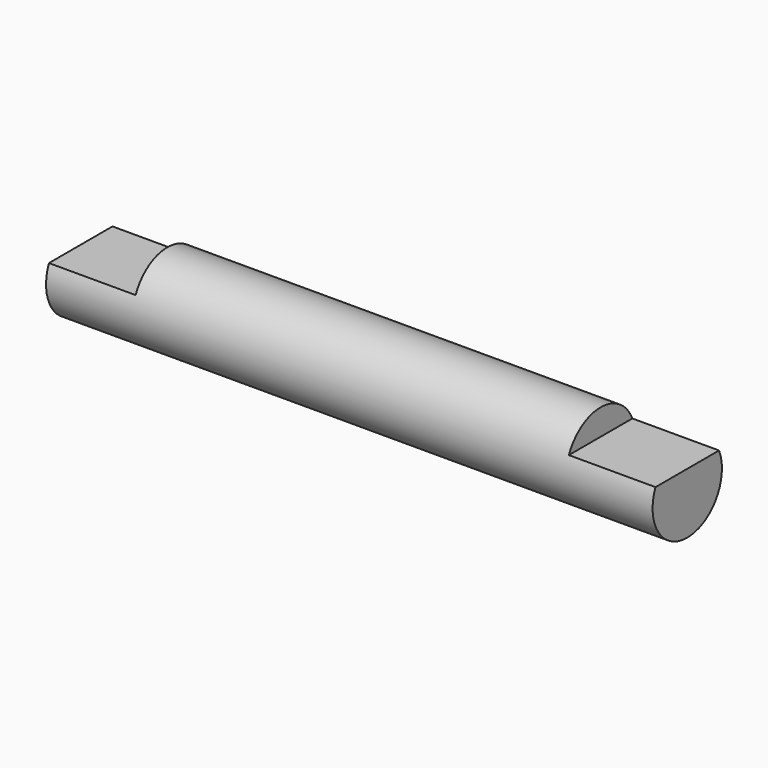
from build123d import *

# Parameters (mm, degrees)
F0_R     = 3.175
F1_DEPTH = 44.45
F3_DEPTH = 6.35
F5_DEPTH = 6.35


with BuildPart() as f1:
    # F0 (on Right) → F1 (new body)
    with BuildSketch(Plane.YZ):
        Circle(F0_R)
    extrude(amount=F1_DEPTH)

    # F2 (on face) → F3 (cut)
    with BuildSketch(Plane.YZ.offset(44.45)):
        with BuildLine():
            ThreePointArc((2.909936, 1.27), (0, 3.175), (-2.909936, 1.27))
            Line((-2.909936, 1.27), (2.909936, 1.27))
        make_face()
    extrude(amount=-F3_DEPTH, mode=Mode.SUBTRACT)

    # F4 (on face) → F5 (cut)
    with BuildSketch(Plane(origin=(0, 0, 0), x_dir=(0, -1, 0), z_dir=(-1, 0, 0))):
        with BuildLine():
            Line((-2.909936, 1.27), (2.909936, 1.27))
            ThreePointArc((2.909936, 1.27), (0, 3.175), (-2.909936, 1.27))
        make_face()
    extrude(amount=-F5_DEPTH, mode=Mode.SUBTRACT)


solid = f1.part
